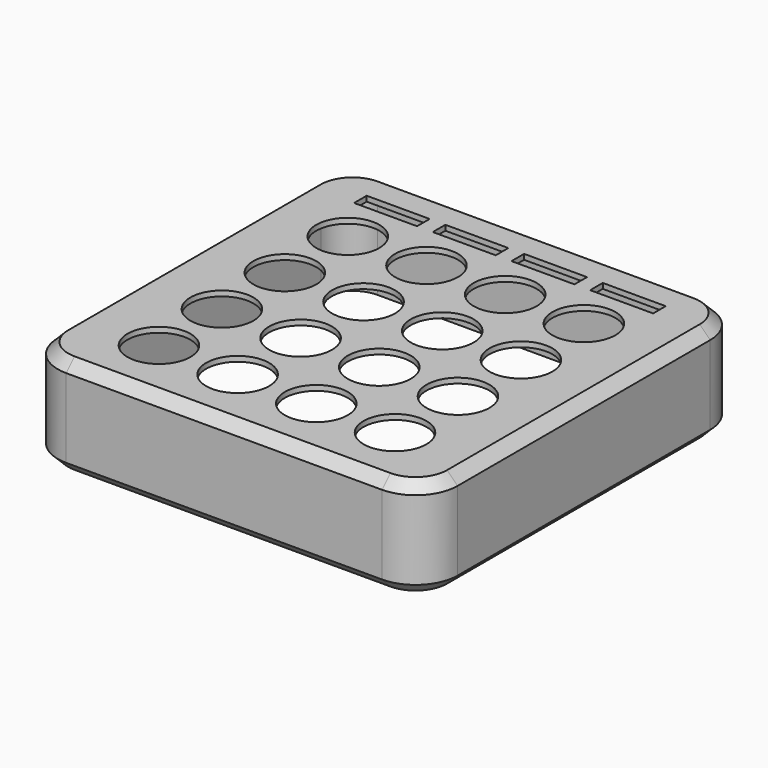
from build123d import *

# Parameters (mm, degrees)
SKETCH_W        = 152.4
SKETCH_H        = 152.4
PAD_DEPTH       = 38.1
FILLET_R        = 16
CHAMFER_SIZE    = 4
SKETCH001_R     = 12
SKETCH001_W     = 24
SKETCH001_H     = 6
POCKET_DEPTH    = 38.101
POCKET_FACE9_R  = 12
POCKET_FACE9_W  = 6
POCKET_FACE9_H  = 24
POCKET001_DEPTH = 36.1


with BuildPart() as part:
    # Sketch → Pad (new body)
    with BuildSketch(Plane.XY):
        Rectangle(SKETCH_W, SKETCH_H)
    extrude(amount=PAD_DEPTH)

    # Fillet
    fillet_edges = [part.edges().sort_by_distance(p)[0] for p in [
        (-76.2, 76.2, 19.05),
        (-76.2, -76.2, 19.05),
        (76.2, -76.2, 19.05),
        (76.2, 76.2, 19.05),
    ]]
    fillet(fillet_edges, radius=FILLET_R)

    # Chamfer
    chamfer_edges = [part.edges().sort_by_distance(p)[0] for p in [
        (0, -76.2, 0),
        (0, -76.2, 38.1),
    ]]
    chamfer(chamfer_edges, length=CHAMFER_SIZE)

    # Sketch001 (on Face11 of Chamfer) → Pocket (cut, through all)
    with BuildSketch(Plane.XY.offset(38.1)):
        with Locations((-45, -51)):
            Circle(SKETCH001_R)
        with Locations((-45, -21)):
            Circle(SKETCH001_R)
        with Locations((-45, 9)):
            Circle(SKETCH001_R)
        with Locations((-45, 39)):
            Circle(SKETCH001_R)
        with Locations((-15, -51)):
            Circle(SKETCH001_R)
        with Locations((-15, -21)):
            Circle(SKETCH001_R)
        with Locations((-15, 9)):
            Circle(SKETCH001_R)
        with Locations((-15, 39)):
            Circle(SKETCH001_R)
        with Locations((15, -51)):
            Circle(SKETCH001_R)
        with Locations((15, -21)):
            Circle(SKETCH001_R)
        with Locations((15, 9)):
            Circle(SKETCH001_R)
        with Locations((15, 39)):
            Circle(SKETCH001_R)
        with Locations((45, -51)):
            Circle(SKETCH001_R)
        with Locations((45, -21)):
            Circle(SKETCH001_R)
        with Locations((45, 9)):
            Circle(SKETCH001_R)
        with Locations((45, 39)):
            Circle(SKETCH001_R)
        with Locations((-45, 60)):
            Rectangle(SKETCH001_W, SKETCH001_H)
        with Locations((-15, 60)):
            Rectangle(SKETCH001_W, SKETCH001_H)
        with Locations((15, 60)):
            Rectangle(SKETCH001_W, SKETCH001_H)
        with Locations((45, 60)):
            Rectangle(SKETCH001_W, SKETCH001_H)
    extrude(amount=-POCKET_DEPTH, mode=Mode.SUBTRACT)

    # Pocket Face9 → Pocket001 (cut)
    with BuildSketch(Plane(origin=(0, 0.686829, 0), x_dir=(0, -1, 0), z_dir=(0, 0, -1))):
        with BuildLine():
            Line((72.886829, -60.2), (72.886829, 60.2))
            ThreePointArc((72.886829, 60.2), (69.37211, 68.685281), (60.886829, 72.2))
            Line((60.886829, 72.2), (-59.513171, 72.2))
            ThreePointArc((-59.513171, 72.2), (-67.998453, 68.685281), (-71.513171, 60.2))
            Line((-71.513171, 60.2), (-71.513171, -60.2))
            ThreePointArc((-71.513171, -60.2), (-67.998453, -68.685281), (-59.513171, -72.2))
            Line((-59.513171, -72.2), (60.886829, -72.2))
            ThreePointArc((60.886829, -72.2), (69.37211, -68.685281), (72.886829, -60.2))
        make_face()
        with Locations((-38.313171, 45)):
            Circle(POCKET_FACE9_R, mode=Mode.SUBTRACT)
        with Locations((-8.313171, 45)):
            Circle(POCKET_FACE9_R, mode=Mode.SUBTRACT)
        with Locations((-8.313171, 15)):
            Circle(POCKET_FACE9_R, mode=Mode.SUBTRACT)
        with Locations((-38.313171, 15)):
            Circle(POCKET_FACE9_R, mode=Mode.SUBTRACT)
        with Locations((-38.313171, -15)):
            Circle(POCKET_FACE9_R, mode=Mode.SUBTRACT)
        with Locations((21.686829, 45)):
            Circle(POCKET_FACE9_R, mode=Mode.SUBTRACT)
        with Locations((21.686829, -45)):
            Circle(POCKET_FACE9_R, mode=Mode.SUBTRACT)
        with Locations((-8.313171, -45)):
            Circle(POCKET_FACE9_R, mode=Mode.SUBTRACT)
        with Locations((21.686829, -15)):
            Circle(POCKET_FACE9_R, mode=Mode.SUBTRACT)
        with Locations((-8.313171, -15)):
            Circle(POCKET_FACE9_R, mode=Mode.SUBTRACT)
        with Locations((21.686829, 15)):
            Circle(POCKET_FACE9_R, mode=Mode.SUBTRACT)
        with Locations((-38.313171, -45)):
            Circle(POCKET_FACE9_R, mode=Mode.SUBTRACT)
        with Locations((-59.313171, 45)):
            Rectangle(POCKET_FACE9_W, POCKET_FACE9_H, mode=Mode.SUBTRACT)
        with Locations((-59.313171, 15)):
            Rectangle(POCKET_FACE9_W, POCKET_FACE9_H, mode=Mode.SUBTRACT)
        with Locations((-59.313171, -15)):
            Rectangle(POCKET_FACE9_W, POCKET_FACE9_H, mode=Mode.SUBTRACT)
        with Locations((-59.313171, -45)):
            Rectangle(POCKET_FACE9_W, POCKET_FACE9_H, mode=Mode.SUBTRACT)
        with Locations((51.686829, 15)):
            Circle(POCKET_FACE9_R, mode=Mode.SUBTRACT)
        with Locations((51.686829, -15)):
            Circle(POCKET_FACE9_R, mode=Mode.SUBTRACT)
        with Locations((51.686829, -45)):
            Circle(POCKET_FACE9_R, mode=Mode.SUBTRACT)
        with Locations((51.686829, 45)):
            Circle(POCKET_FACE9_R, mode=Mode.SUBTRACT)
    extrude(amount=-POCKET001_DEPTH, mode=Mode.SUBTRACT)


solid = part.part
